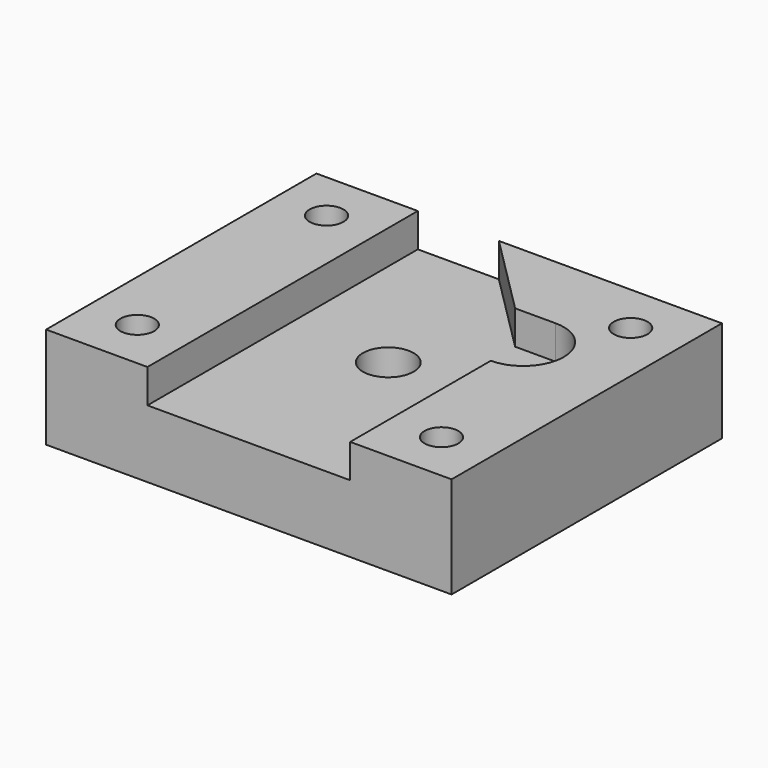
from build123d import *

# Parameters (mm, degrees)
F0_W     = 76.2
F0_H     = 63.5
F0_R     = 3.175
F1_DEPTH = 19.05
F2_R     = 4.7625
F3_DEPTH = 6.35
F4_R     = 4.7625
F5_DEPTH = 12.701


with BuildPart() as f1:
    # F0 (on Top) → F1 (new body)
    with BuildSketch(Plane.XY):
        with Locations((38.1, 31.75)):
            Rectangle(F0_W, F0_H)
        with Locations((9.525, 9.525)):
            Circle(F0_R, mode=Mode.SUBTRACT)
        with Locations((66.675, 9.525)):
            Circle(F0_R, mode=Mode.SUBTRACT)
        with Locations((9.525, 53.975)):
            Circle(F0_R, mode=Mode.SUBTRACT)
        with Locations((66.675, 53.975)):
            Circle(F0_R, mode=Mode.SUBTRACT)
    extrude(amount=F1_DEPTH)

    # F2 (on face) → F3 (cut)
    with BuildSketch(Plane.XY.offset(19.05)):
        with BuildLine():
            Line((19.05, 63.5), (19.05, 0))
            Line((19.05, 0), (57.15, 0))
            Line((57.15, 0), (57.15, 33.02))
            ThreePointArc((57.15, 33.02), (64.77, 40.64), (57.15, 48.26))
            Line((57.15, 48.26), (49.53, 48.26))
            Line((49.53, 48.26), (34.29, 63.5))
            Line((34.29, 63.5), (19.05, 63.5))
        make_face()
        with Locations((38.1, 32.749232)):
            Circle(F2_R, mode=Mode.SUBTRACT)
        with Locations((38.1, 32.749232)):
            Circle(F2_R)
    extrude(amount=-F3_DEPTH, mode=Mode.SUBTRACT)

    # F4 (on face) → F5 (cut, through all)
    with BuildSketch(Plane.XY.offset(12.7)):
        with Locations((38.1, 32.749232)):
            Circle(F4_R)
    extrude(amount=-F5_DEPTH, mode=Mode.SUBTRACT)


solid = f1.part
